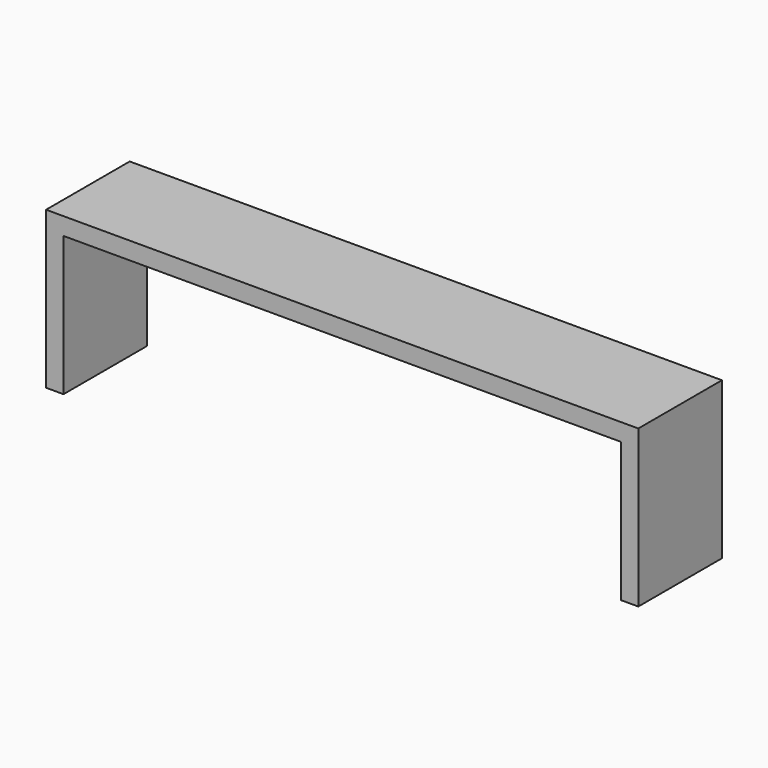
from build123d import *

# Parameters (mm, degrees)
F0_W     = 2438.4
F0_H     = 457.2
F1_DEPTH = 609.6
F2_T     = 76.2


with BuildPart() as f1:
    # F0 (on Top) → F1 (new body)
    with BuildSketch(Plane.XY):
        with Locations((-1678.0739219427, -2123.2131924457)):
            Rectangle(F0_W, F0_H)
    extrude(amount=F1_DEPTH)

    # F2
    f2_openings = [f1.faces().sort_by_distance(p)[0] for p in [
        (-1678.073922, -2351.813192, 304.8),
        (-1678.073922, -1894.613192, 304.8),
        (-1678.073922, -2123.213192, 0),
    ]]
    offset(amount=F2_T, openings=f2_openings, kind=Kind.INTERSECTION)


solid = f1.part
